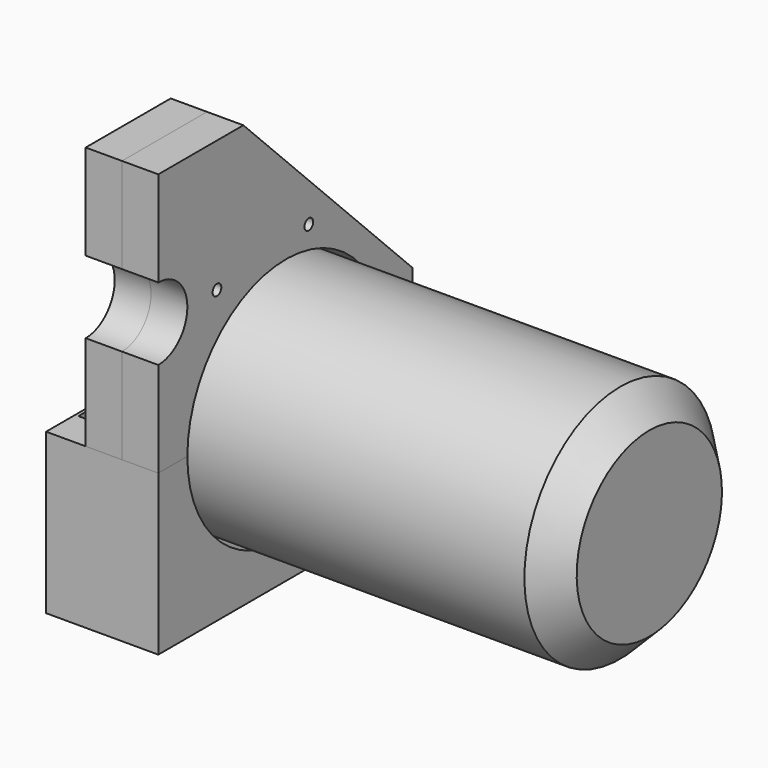
from build123d import *

# Parameters (mm, degrees)
F3_DEPTH       = 0.6
F6_DEPTH       = 30
F7_DEPTH       = 0.9
F8_R           = 1.5
F9_DEPTH       = 4.5
F9_DEPTH_BACK  = 4.5
F10_R          = 1.5
F11_DEPTH      = 10
F13_DEPTH      = 0.6
F14_DEPTH      = 10
F12_R          = 5.5
F15_DEPTH      = 5
F15_DEPTH_BACK = 5
F12_R_2        = 10
F12_R_3        = 1.5
F16_DEPTH      = 20.901
F16_DEPTH_BACK = 110.001


with BuildPart() as f1:
    # F0 (on Front) → F1 (revolve)
    with BuildSketch(Plane.XZ):
        Polygon((-20, 27), (-20, 0), (110, 0), (110, 25), (102, 33), (-3, 33), align=None)
    revolve(axis=Axis((45, 0, 0), (-1, 0, 0)))


with BuildPart() as f3:
    # F2 (on Right) → F3 (new body)
    with BuildSketch(Plane.YZ):
        with BuildLine():
            Line((-1.4899937615, 23.0019125879), (2.7371470702, 47.4790709277))
            Line((2.7371470702, 47.4790709277), (-3.7042103876, 55.1281829089))
            Line((-3.7042103876, 55.1281829089), (-5.4252605834, 53.6788774808))
            ThreePointArc((-5.4252605834, 53.6788774808), (-7.8910927352, 53.8902345224), (-7.6797356936, 56.3560666743))
            Line((-7.6797356936, 56.3560666743), (-5.9586854978, 57.8053721023))
            Line((-5.9586854978, 57.8053721023), (-7.8910927352, 60.1001056966))
            Line((-7.8910927352, 60.1001056966), (-9.6121429309, 58.6508002686))
            ThreePointArc((-9.6121429309, 58.6508002686), (-12.0779750828, 58.8621573102), (-11.8666180412, 61.327989462))
            Line((-11.8666180412, 61.327989462), (-10.1455678454, 62.77729489))
            Line((-10.1455678454, 62.77729489), (-16.5869253033, 70.4264068712))
            Line((-16.5869253033, 70.4264068712), (-41.42641, 70.4264068712))
            Line((-41.42641, 70.4264068712), (-1.4899937615, 23.0019125879))
        make_face()
    extrude(amount=-F3_DEPTH)


with BuildPart() as f6:
    # F5 (on offset) → F6 (new body)
    with BuildSketch(Plane(origin=(-20, 0, 0), x_dir=(0, -1, 0), z_dir=(-1, 0, 0))):
        with BuildLine():
            ThreePointArc((34, 0), (0, -34), (-34, 0))
            Line((-34, 0), (-44, 0))
            Line((-44, 0), (-44, -44))
            Line((-44, -44), (44, -44))
            Line((44, -44), (44, 0))
            Line((44, 0), (34, 0))
        make_face()
    extrude(amount=-F6_DEPTH)

    # F5 (on offset) → F7 (join)
    with BuildSketch(Plane(origin=(-20, 0, 0), x_dir=(0, -1, 0), z_dir=(-1, 0, 0))):
        with BuildLine():
            Line((34, 0), (-34, 0))
            ThreePointArc((-34, 0), (0, -34), (34, 0))
        make_face()
        with BuildLine():
            ThreePointArc((34, 0), (0, -34), (-34, 0))
            Line((-34, 0), (-44, 0))
            Line((-44, 0), (-44, -44))
            Line((-44, -44), (44, -44))
            Line((44, -44), (44, 0))
            Line((44, 0), (34, 0))
        make_face()
    extrude(amount=F7_DEPTH)

    # F8 (on Right) → F9 (join, two sides)
    with BuildSketch(Plane.YZ) as f9_sk:
        with BuildLine():
            Line((34, 0), (44, 0))
            Line((44, 0), (44, 5))
            ThreePointArc((44, 5), (39, 10), (34, 5))
            Line((34, 5), (34, 0))
        make_face()
        with Locations((39, 5)):
            Circle(F8_R, mode=Mode.SUBTRACT)
    extrude(amount=F9_DEPTH)
    extrude(f9_sk.sketch, amount=-F9_DEPTH_BACK)


with BuildPart() as f11:
    # F10 (on Right) → F11 (new body)
    with BuildSketch(Plane.YZ):
        with BuildLine():
            Line((-44, 72.4264068712), (-44, 0))
            Line((-44, 0), (-34, 0))
            ThreePointArc((-34, 0), (-5.6180613128, 33.5326316755), (32.1433757109, 11.0816694549))
            Line((32.1433757109, 11.0816694549), (34.7457296853, 3.5333084545))
            ThreePointArc((34.7457296853, 3.5333084545), (38.2564330615, 9.4381424276), (43.5, 5))
            Line((43.5, 5), (43.5, 14.1984848098))
            Line((43.5, 14.1984848098), (-14.7279220614, 72.4264068712))
            Line((-14.7279220614, 72.4264068712), (-44, 72.4264068712))
        make_face()
        with BuildLine():
            ThreePointArc((43.5, 5), (38.2564330615, 9.4381424276), (34.7457296853, 3.5333084545))
            ThreePointArc((34.7457296853, 3.5333084545), (39.7435669385, 0.5618575724), (43.5, 5))
        make_face()
        with Locations((39, 5)):
            Circle(F10_R, mode=Mode.SUBTRACT)
    extrude(amount=-F11_DEPTH)

    # F12 (on Right) → F13 (cut)
    with BuildSketch(Plane.YZ):
        with BuildLine():
            Line((3.26944025, 47.6232066735), (-3.6438226614, 55.8327063808))
            Line((-3.6438226614, 55.8327063808), (-5.7473284563, 54.0613330799))
            ThreePointArc((-5.7473284563, 54.0613330799), (-7.5086371361, 54.2123023953), (-7.3576678207, 55.9736110752))
            Line((-7.3576678207, 55.9736110752), (-5.2541620259, 57.7449843761))
            Line((-5.2541620259, 57.7449843761), (-7.830705009, 60.8046291686))
            Line((-7.830705009, 60.8046291686), (-9.9342108038, 59.0332558677))
            ThreePointArc((-9.9342108038, 59.0332558677), (-11.6955194837, 59.1842251831), (-11.5445501683, 60.945533863))
            Line((-11.5445501683, 60.945533863), (-9.4410443735, 62.7169071639))
            Line((-9.4410443735, 62.7169071639), (-16.3543072849, 70.9264068712))
            Line((-16.3543072849, 70.9264068712), (-42.5011332815, 70.9264068712))
            Line((-42.5011332815, 70.9264068712), (-1.1801816781, 21.8577768422))
            Line((-1.1801816781, 21.8577768422), (3.26944025, 47.6232066735))
        make_face()
    extrude(amount=-F13_DEPTH, mode=Mode.SUBTRACT)


with BuildPart() as f14:
    # F10 (on Right) → F14 (new body)
    with BuildSketch(Plane.YZ):
        with BuildLine():
            Line((-44, 72.4264068712), (-44, 0))
            Line((-44, 0), (-34, 0))
            ThreePointArc((-34, 0), (-5.6180613128, 33.5326316755), (32.1433757109, 11.0816694549))
            Line((32.1433757109, 11.0816694549), (34.7457296853, 3.5333084545))
            ThreePointArc((34.7457296853, 3.5333084545), (38.2564330615, 9.4381424276), (43.5, 5))
            Line((43.5, 5), (43.5, 14.1984848098))
            Line((43.5, 14.1984848098), (-14.7279220614, 72.4264068712))
            Line((-14.7279220614, 72.4264068712), (-44, 72.4264068712))
        make_face()
        with BuildLine():
            ThreePointArc((43.5, 5), (38.2564330615, 9.4381424276), (34.7457296853, 3.5333084545))
            ThreePointArc((34.7457296853, 3.5333084545), (39.7435669385, 0.5618575724), (43.5, 5))
        make_face()
        with Locations((39, 5)):
            Circle(F10_R, mode=Mode.SUBTRACT)
    extrude(amount=F14_DEPTH)


with BuildPart() as f15_tool:
    # F12 (on Right) → F15 (new body, two sides)
    with BuildSketch(Plane.YZ) as f15_sk:
        with Locations((39, 5)):
            Circle(F12_R)
    extrude(amount=-F15_DEPTH)
    extrude(f15_sk.sketch, amount=F15_DEPTH_BACK)


with BuildPart() as f11_1:
    add(f11.part)

    # F15: cut by f15_tool
    add(f15_tool.part, mode=Mode.SUBTRACT)


with BuildPart() as f14_1:
    add(f14.part)

    # F15: cut by f15_tool
    add(f15_tool.part, mode=Mode.SUBTRACT)


with BuildPart() as f16_tool:
    # F12 (on Right) → F16 (new body, two sides)
    with BuildSketch(Plane.YZ) as f16_sk:
        with Locations((-44, 36.2132034356)):
            Circle(F12_R_2)
        with Locations((-23.8099154085, 36.2132034356)):
            Circle(F12_R_3)
        with Locations((7.8146243468, 39.2534583807)):
            Circle(F12_R_3)
    extrude(amount=-F16_DEPTH)
    extrude(f16_sk.sketch, amount=F16_DEPTH_BACK)


with BuildPart() as f11_2:
    add(f11_1.part)

    # F16: cut by f16_tool
    add(f16_tool.part, mode=Mode.SUBTRACT)


with BuildPart() as f14_2:
    add(f14_1.part)

    # F16: cut by f16_tool
    add(f16_tool.part, mode=Mode.SUBTRACT)


solid = Compound([f1.part, f3.part, f6.part, f11_2.part, f14_2.part])
